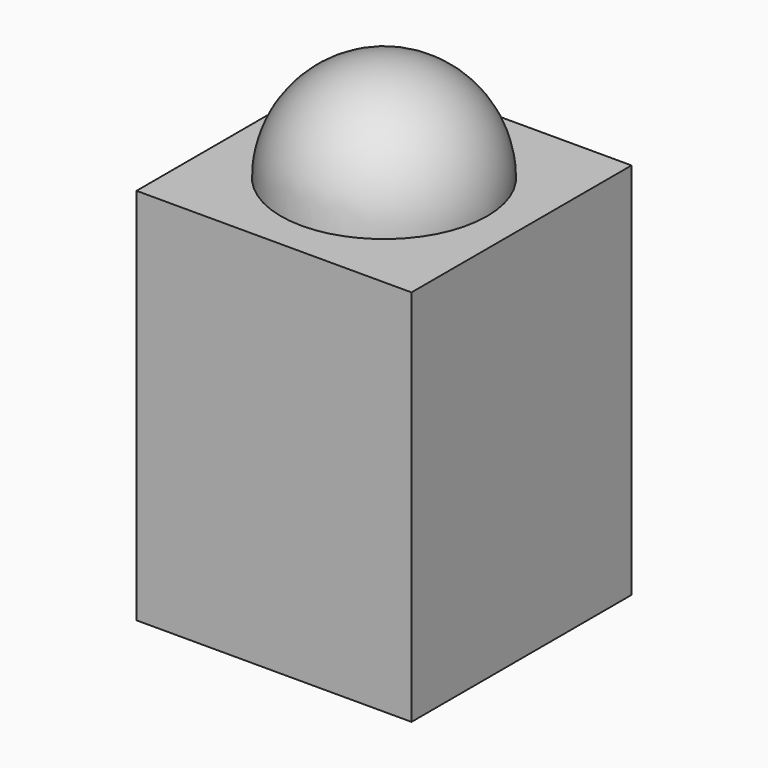
from build123d import *

# Parameters (mm, degrees)
F0_W     = 800
F0_H     = 1100
F1_DEPTH = 800
F4_W     = 300
F4_H     = 300
F5_DEPTH = 200


with BuildPart() as f1:
    # F0 (on Front) → F1 (new body)
    with BuildSketch(Plane.XZ):
        with Locations((0, 650)):
            Rectangle(F0_W, F0_H)
    extrude(amount=F1_DEPTH)

    # F2 (on face) → F3 (revolve)
    with BuildSketch(Plane.XY.offset(1200)):
        with BuildLine():
            ThreePointArc((300, -400), (0, -100), (-300, -400))
            Line((-300, -400), (300, -400))
        make_face()
    revolve(axis=Axis((0, -400, 1200), (1, 0, 0)))

    # F4 (on face) → F5 (cut)
    with BuildSketch(Plane(origin=(0, 0, 100), x_dir=(1, 0, 0), z_dir=(0, 0, -1))):
        with Locations((-249, 649)):
            Rectangle(F4_W, F4_H)
        with Locations((249, 649)):
            Rectangle(F4_W, F4_H)
        with Locations((249, 151)):
            Rectangle(F4_W, F4_H)
        with Locations((-249, 151)):
            Rectangle(F4_W, F4_H)
    extrude(amount=-F5_DEPTH, mode=Mode.SUBTRACT)


solid = f1.part
